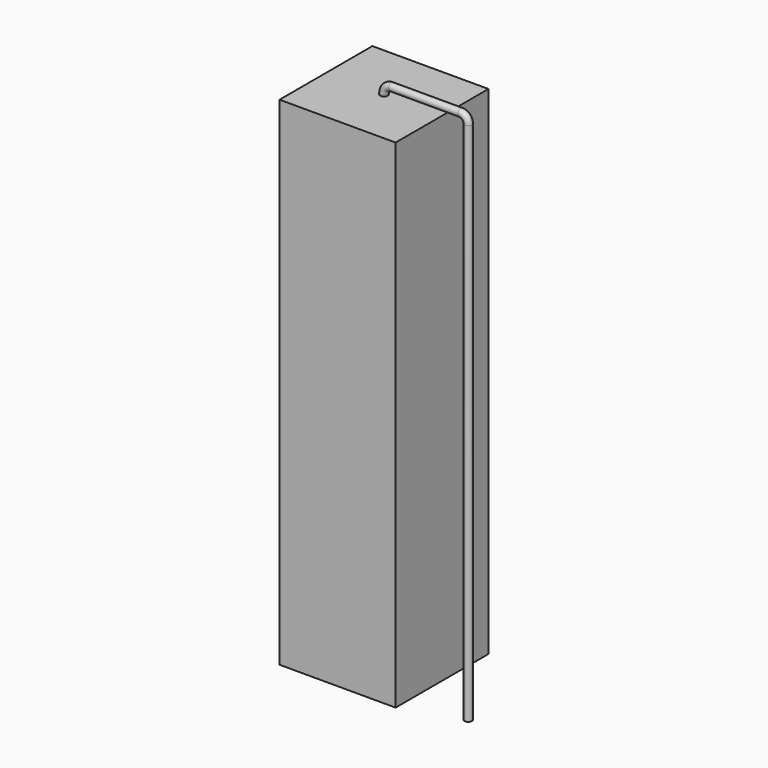
from build123d import *

# Parameters (mm, degrees)
SKETCH_R    = 0.45
SKETCH002_W = 14
SKETCH002_H = 60
PAD_DEPTH   = 7


with BuildPart() as sweep_body:
    # Sweep: sweep along a path in Sketch001
    with BuildLine(Plane.XZ) as sweep_path:
        Line((0, -3), (0, 60.3))
        ThreePointArc((0, 60.3), (0.2636, 60.936392), (0.899989, 61.2))
        Line((0.899989, 61.2), (9.26, 61.2))
        ThreePointArc((9.26, 61.2), (9.896396, 60.936396), (10.16, 60.3))
        Line((10.16, 60.3), (10.16, -3))
    # Sketch → Sweep (sweep)
    with BuildSketch(Plane.XY.offset(-2)):
        Circle(SKETCH_R)
    sweep(path=sweep_path.line)


with BuildPart() as pad:
    # Sketch002 → Pad (new body, symmetric)
    with BuildSketch(Plane.XZ):
        with Locations((0, 30.1)):
            Rectangle(SKETCH002_W, SKETCH002_H)
    extrude(amount=PAD_DEPTH, both=True)


solid = Compound([sweep_body.part, pad.part])
